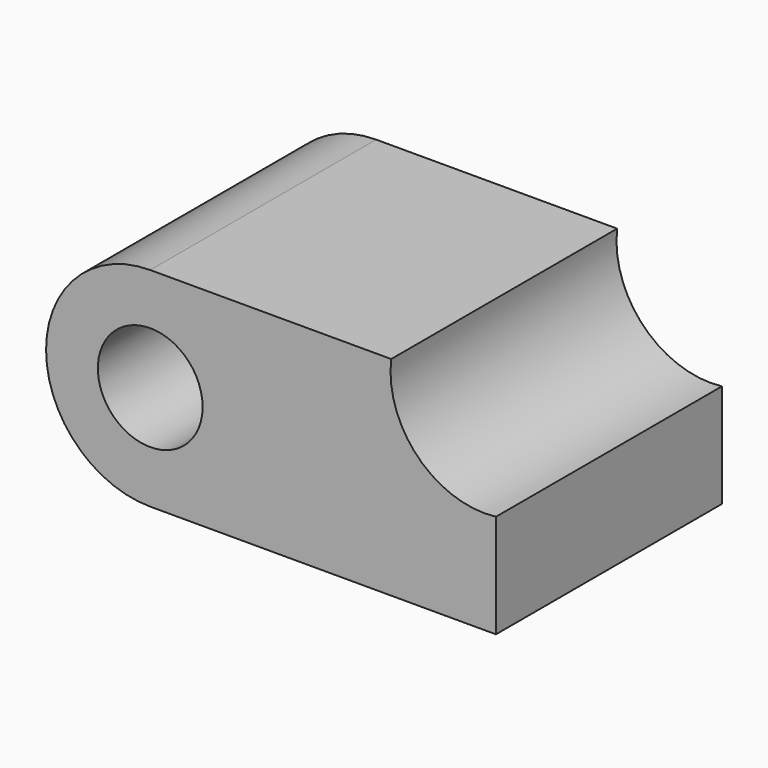
from build123d import *

# Parameters (mm, degrees)
F0_R     = 15.875
F1_DEPTH = 85.598


with BuildPart() as f1:
    # F0 (on Front) → F1 (new body)
    with BuildSketch(Plane.XZ):
        with BuildLine():
            ThreePointArc((0, 63.131541), (-31.565771, 31.565771), (0, 0))
            Line((0, 0), (104.775, 0))
            Line((104.775, 0), (104.775, 31.381541))
            ThreePointArc((104.775, 31.381541), (81.194411, 39.550952), (73.025, 63.131541))
            Line((73.025, 63.131541), (0, 63.131541))
        make_face()
        with Locations((0, 31.75)):
            Circle(F0_R, mode=Mode.SUBTRACT)
    extrude(amount=F1_DEPTH)


solid = f1.part
